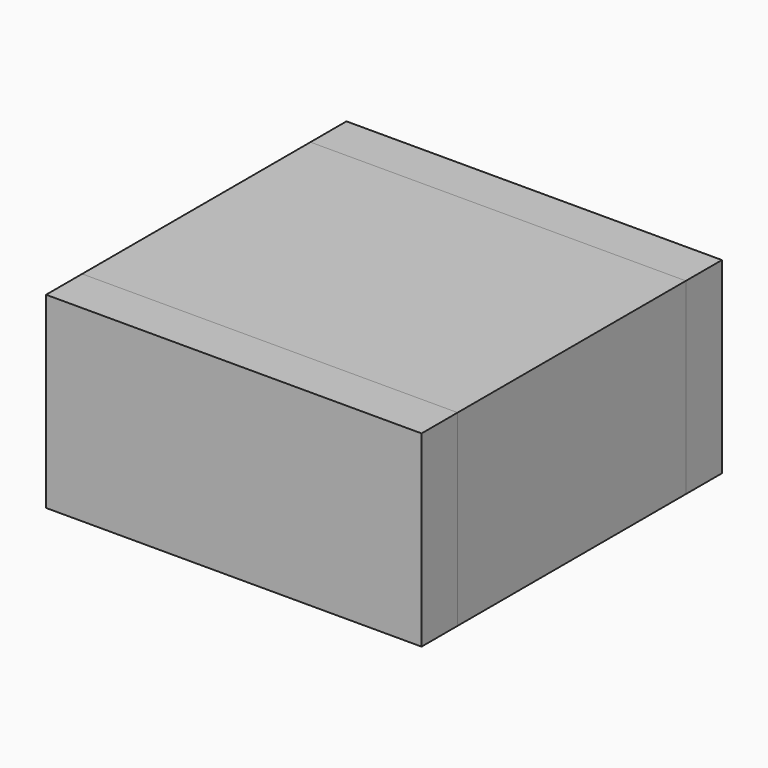
from build123d import *

# Parameters (mm, degrees)
F0_W     = 50
F0_H     = 25
F0_W_2   = 44
F0_H_2   = 19
F1_DEPTH = 38
F2_W     = 50
F2_H     = 25
F3_DEPTH = 6
F4_W     = 50
F4_H     = 25
F5_DEPTH = 6


with BuildPart() as f1:
    # F0 (on Front) → F1 (new body)
    with BuildSketch(Plane.XZ):
        Rectangle(F0_W, F0_H)
        Rectangle(F0_W_2, F0_H_2, mode=Mode.SUBTRACT)
    extrude(amount=F1_DEPTH)


with BuildPart() as f3:
    # F2 (on face) → F3 (new body)
    with BuildSketch(Plane(origin=(0, 0, 0), x_dir=(-1, 0, 0), z_dir=(0, 1, 0))):
        Rectangle(F2_W, F2_H)
    extrude(amount=F3_DEPTH)


with BuildPart() as f5:
    # F4 (on face) → F5 (new body)
    with BuildSketch(Plane.XZ.offset(38)):
        Rectangle(F4_W, F4_H)
    extrude(amount=F5_DEPTH)


solid = Compound([f1.part, f3.part, f5.part])
